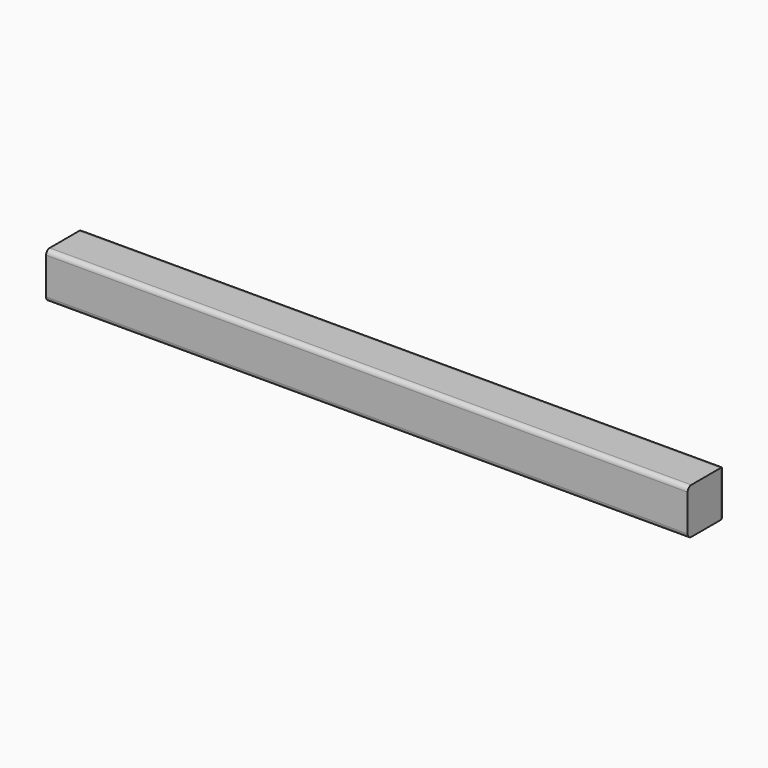
from build123d import *

# Parameters (mm, degrees)
F0_W     = 177.8
F0_H     = 12.7
F1_DEPTH = 12.7
F2_R     = 1.27


with BuildPart() as f1:
    # F0 (on Top) → F1 (new body)
    with BuildSketch(Plane.XY):
        Rectangle(F0_W, F0_H)
    extrude(amount=F1_DEPTH)

    # F2
    f2_edges = [f1.edges().sort_by_distance(p)[0] for p in [
        (0, 6.35, 12.7),
        (0, -6.35, 12.7),
        (88.9, 6.35, 6.35),
        (-88.9, 6.35, 6.35),
        (0, 6.35, 0),
        (0, -6.35, 0),
    ]]
    fillet(f2_edges, radius=F2_R)


solid = f1.part
